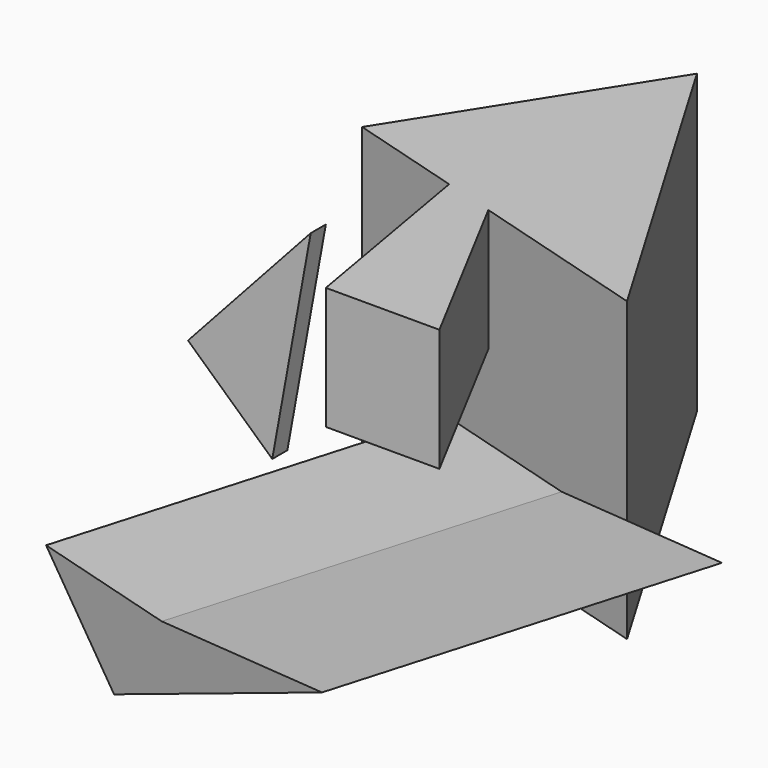
from build123d import *

# Parameters (mm, degrees)
F1_DEPTH = 17.6301095635
F3_DEPTH = 114.2712011933
F5_DEPTH = 277.5703370571
F7_DEPTH = 356.0210168362


with BuildPart() as f1:
    # F0 (on Front) → F1 (new body)
    with BuildSketch(Plane.XZ):
        Polygon((-35.8915419667, -30.8375303411), (0, 166.366070509), (-114.5141869783, 40.9518331289), align=None)
    extrude(amount=F1_DEPTH)


with BuildPart() as f3:
    # F2 (on Top) → F3 (new body)
    with BuildSketch(Plane.XY):
        Polygon((-51.7277568579, 296.9393134117), (0, 0), (105.9562191367, 0), align=None)
    extrude(amount=F3_DEPTH)

    # F4 (on face) → F5 (join)
    with BuildSketch(Plane.XY.offset(114.2712011933)):
        Polygon((184.6031248569, 120.5621361732), (0, 432.8200817108), (-137.9265487194, 214.7382646799), align=None)
    extrude(amount=-F5_DEPTH)

    # F6 (on face) → F7 (join)
    with BuildSketch(Plane(origin=(46.9402508542, 160.7586128848, 0), x_dir=(0.9599159773, -0.2802879172, 0), z_dir=(-0.2802879172, -0.9599159773, 0))):
        Polygon((198.4482820092, -77.561751008), (60.4942813516, -77.561751008), (-86.2073600292, -77.561751008), (0, -163.2991358638), align=None)
        Polygon((263.7838125229, -49.3342578411), (60.4942813516, -77.561751008), (198.4482820092, -77.561751008), align=None)
        Polygon((143.4113789723, -77.561751008), (60.4942813516, -77.561751008), (-86.2073600292, -77.561751008), (0, -163.2991358638), (143.4113789723, -101.3398361049), align=None)
    extrude(amount=F7_DEPTH)


solid = Compound([f1.part, f3.part])
